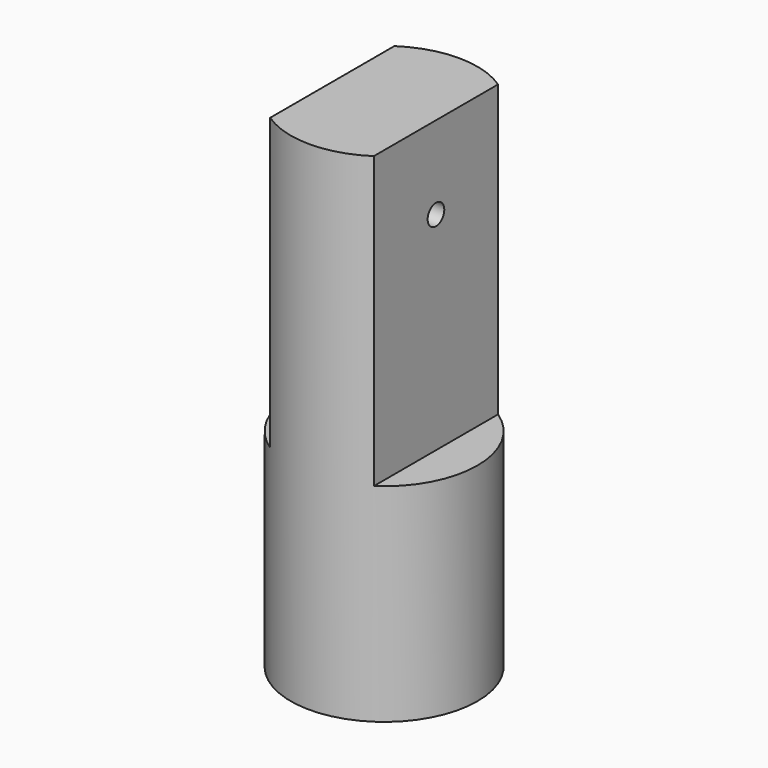
from build123d import *

# Parameters (mm, degrees)
F0_R     = 22.5
F1_DEPTH = 120
F3_DEPTH = 70
F4_R     = 20
F5_DEPTH = 35
F8_D     = 5


with BuildPart() as f1:
    # F0 (on Top) → F1 (new body)
    with BuildSketch(Plane.XY):
        Circle(F0_R)
    extrude(amount=F1_DEPTH)

    # F2 (on face) → F3 (cut)
    with BuildSketch(Plane.XY.offset(120)):
        with BuildLine():
            Line((-12.5, -18.708287), (-12.5, 18.708287))
            ThreePointArc((-12.5, 18.708287), (-22.5, 0), (-12.5, -18.708287))
        make_face()
        with BuildLine():
            ThreePointArc((22.5, 0), (19.843135, 10.606602), (12.5, 18.708287))
            Line((12.5, 18.708287), (12.5, -18.708287))
            ThreePointArc((12.5, -18.708287), (19.843135, -10.606602), (22.5, 0))
        make_face()
    extrude(amount=-F3_DEPTH, mode=Mode.SUBTRACT)

    # F4 (on face) → F5 (cut)
    with BuildSketch(Plane.XY):
        Circle(F4_R)
    extrude(amount=F5_DEPTH, mode=Mode.SUBTRACT)

    # F8 (through all)
    with Locations(Plane.YZ.offset(22.5)):
        with Locations((0, 100)):
            Hole(F8_D / 2)


solid = f1.part
